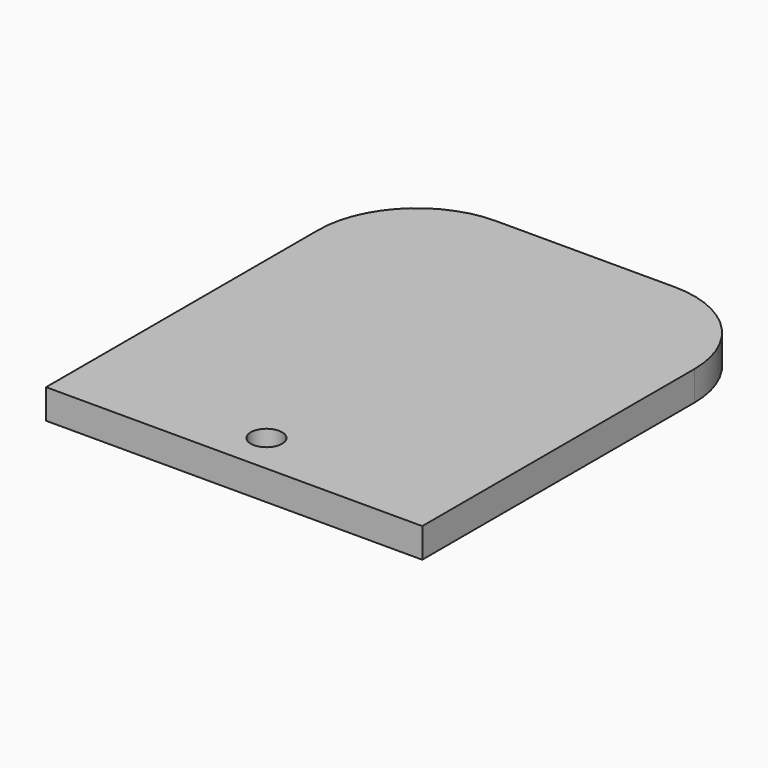
from build123d import *

# Parameters (mm, degrees)
F0_R     = 3.175
F1_DEPTH = 3


with BuildPart() as f1:
    # F0 (on Top) → F1 (new body, symmetric)
    with BuildSketch(Plane.XY):
        with BuildLine():
            Line((-97.928558, -28.24017), (-21.728558, -28.24017))
            Line((-21.728558, -28.24017), (-21.728558, 40.65983))
            ThreePointArc((-21.728558, 40.65983), (-27.586423, 54.801966), (-41.728558, 60.65983))
            Line((-41.728558, 60.65983), (-77.928558, 60.65983))
            ThreePointArc((-77.928558, 60.65983), (-92.070694, 54.801966), (-97.928558, 40.65983))
            Line((-97.928558, 40.65983), (-97.928558, -28.24017))
        make_face()
        with Locations((-59.828558, -20.06517)):
            Circle(F0_R, mode=Mode.SUBTRACT)
    extrude(amount=F1_DEPTH, both=True)


solid = f1.part
